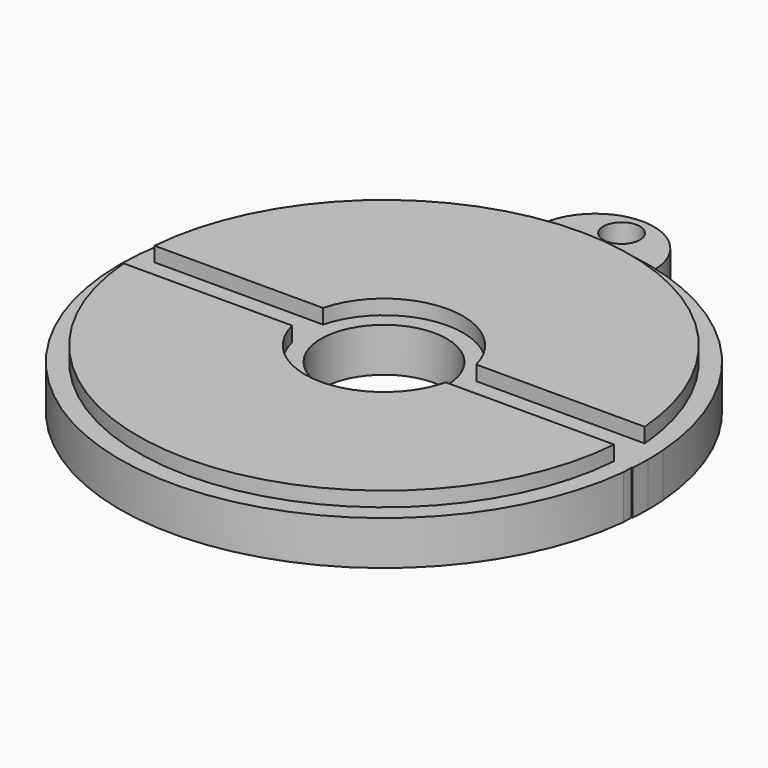
from build123d import *

# Parameters (mm, degrees)
F1_DEPTH = 5.08
F0_R     = 5.442905
F2_DEPTH = 3.81
F0_R_2   = 1.5875
F3_DEPTH = 3.175


with BuildPart() as f1:
    # F0 (on Top) → F1 (new body)
    with BuildSketch(Plane.XY):
        with BuildLine():
            Line((-21.217541, 1.695553), (-21.167484, 1.695553))
            Line((-21.167484, 1.695553), (-6.632199, 1.695553))
            ThreePointArc((-6.632199, 1.695553), (0, 6.845507), (6.632199, 1.695553))
            Line((6.632199, 1.695553), (21.167484, 1.695553))
            Line((21.167484, 1.695553), (21.217541, 1.695553))
            ThreePointArc((21.217541, 1.695553), (0, 21.285181), (-21.217541, 1.695553))
        make_face()
        with BuildLine():
            Line((-6.648738, -1.629494), (-21.172672, -1.629494))
            Line((-21.172672, -1.629494), (-21.222716, -1.629494))
            ThreePointArc((-21.222716, -1.629494), (0, -21.285181), (21.222716, -1.629494))
            Line((21.222716, -1.629494), (21.172672, -1.629494))
            Line((21.172672, -1.629494), (6.648738, -1.629494))
            ThreePointArc((6.648738, -1.629494), (0, -6.845507), (-6.648738, -1.629494))
        make_face()
    extrude(amount=F1_DEPTH)

    # F0 (on Top) → F2 (join)
    with BuildSketch(Plane.XY):
        with BuildLine():
            ThreePointArc((22.80185, -1.629494), (22.845458, -0.815266), (22.86, 0))
            ThreePointArc((22.86, 0), (22.844253, 0.848361), (22.797033, 1.695553))
            ThreePointArc((22.797033, 1.695553), (17.318605, 14.921311), (5.048545, 22.295556))
            ThreePointArc((5.048545, 22.295556), (0, 22.86), (-5.048545, 22.295556))
            ThreePointArc((-5.048545, 22.295556), (-17.860422, 14.268319), (-22.86, 0))
            ThreePointArc((-22.86, 0), (-1.23935, -22.82638), (22.725618, -2.475054))
            Line((22.725618, -2.475054), (22.725618, -1.629494))
            Line((22.725618, -1.629494), (22.80185, -1.629494))
        make_face()
        with BuildLine():
            Line((-21.222716, -1.629494), (-21.172672, -1.629494))
            Line((-21.172672, -1.629494), (-6.648738, -1.629494))
            ThreePointArc((-6.648738, -1.629494), (0, -6.845507), (6.648738, -1.629494))
            Line((6.648738, -1.629494), (21.172672, -1.629494))
            Line((21.172672, -1.629494), (21.222716, -1.629494))
            ThreePointArc((21.222716, -1.629494), (0, -21.285181), (-21.222716, -1.629494))
        make_face(mode=Mode.SUBTRACT)
        Circle(F0_R, mode=Mode.SUBTRACT)
        with BuildLine():
            Line((-6.632199, 1.695553), (-21.167484, 1.695553))
            Line((-21.167484, 1.695553), (-21.217541, 1.695553))
            ThreePointArc((-21.217541, 1.695553), (0, 21.285181), (21.217541, 1.695553))
            Line((21.217541, 1.695553), (21.167484, 1.695553))
            Line((21.167484, 1.695553), (6.632199, 1.695553))
            ThreePointArc((6.632199, 1.695553), (0, 6.845507), (-6.632199, 1.695553))
        make_face(mode=Mode.SUBTRACT)
    extrude(amount=F2_DEPTH)

    # F0 (on Top) → F3 (join)
    with BuildSketch(Plane.XY):
        with BuildLine():
            ThreePointArc((-5.048545, 22.295556), (0, 22.86), (5.048545, 22.295556))
            ThreePointArc((5.048545, 22.295556), (0, 27.94), (-5.048545, 22.295556))
        make_face()
        with Locations((0, 25.717106)):
            Circle(F0_R_2, mode=Mode.SUBTRACT)
    extrude(amount=F3_DEPTH)


solid = f1.part
